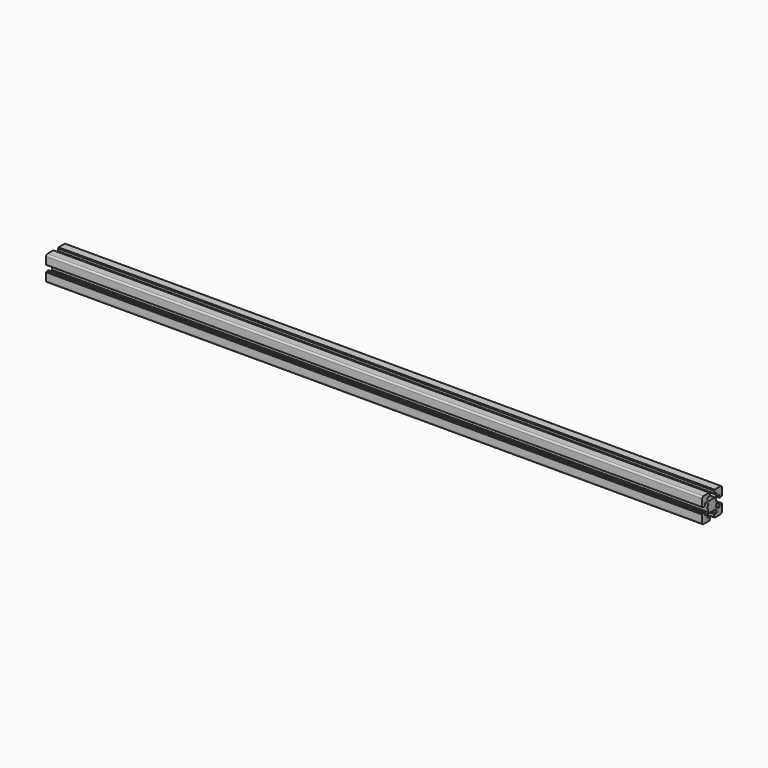
from build123d import *

# Parameters (mm, degrees)
F1_DEPTH = 1193.8


with BuildPart() as f1:
    # F0 (on Right) → F1 (new body)
    with BuildSketch(Plane.YZ):
        with BuildLine():
            Line((-20.088481, -9.788837), (-20.088481, -10.288837))
            Line((-20.088481, -10.288837), (-21.28859, -10.288837))
            ThreePointArc((-21.28859, -10.288837), (-21.500722, -10.376705), (-21.58859, -10.588837))
            Line((-21.58859, -10.588837), (-21.58859, -23.988949))
            ThreePointArc((-21.58859, -23.988949), (-20.70991, -26.11027), (-18.58859, -26.988949))
            Line((-18.58859, -26.988949), (-5.188544, -26.988949))
            ThreePointArc((-5.188544, -26.988949), (-4.976411, -26.901081), (-4.888544, -26.688949))
            Line((-4.888544, -26.688949), (-4.888544, -25.488841))
            Line((-4.888544, -25.488841), (-4.388544, -25.488841))
            ThreePointArc((-4.388544, -25.488841), (-4.176411, -25.400973), (-4.088544, -25.188841))
            Line((-4.088544, -25.188841), (-4.088544, -21.288841))
            ThreePointArc((-4.088544, -21.288841), (-4.176411, -21.076709), (-4.388544, -20.988841))
            Line((-4.388544, -20.988841), (-9.138663, -20.988841))
            Line((-9.138663, -20.988841), (-9.138663, -16.881665))
            Line((-9.138663, -16.881665), (-6.245729, -13.988731))
            Line((-6.245729, -13.988731), (-2.211433, -13.988731))
            ThreePointArc((-2.211433, -13.988731), (-0.669869, -14.363044), (0.91149, -14.48887))
            Line((0.91149, -14.48887), (0.91149, -4.48887))
            Line((0.91149, -4.48887), (-9.08851, -4.48887))
            ThreePointArc((-9.08851, -4.48887), (-8.962684, -6.070229), (-8.588371, -7.611793))
            Line((-8.588371, -7.611793), (-8.588371, -11.646022))
            Line((-8.588371, -11.646022), (-11.481305, -14.538956))
            Line((-11.481305, -14.538956), (-15.588481, -14.538956))
            Line((-15.588481, -14.538956), (-15.588481, -9.788837))
            ThreePointArc((-15.588481, -9.788837), (-15.676349, -9.576705), (-15.888481, -9.488837))
            Line((-15.888481, -9.488837), (-19.788481, -9.488837))
            ThreePointArc((-19.788481, -9.488837), (-20.000613, -9.576705), (-20.088481, -9.788837))
        make_face()
        with BuildLine():
            ThreePointArc((-8.588371, -1.365947), (-8.962684, -2.907511), (-9.08851, -4.48887))
            Line((-9.08851, -4.48887), (0.91149, -4.48887))
            Line((0.91149, -4.48887), (0.91149, 5.51113))
            ThreePointArc((0.91149, 5.51113), (-0.669869, 5.385303), (-2.211433, 5.010991))
            Line((-2.211433, 5.010991), (-6.245729, 5.010991))
            Line((-6.245729, 5.010991), (-9.138663, 7.903925))
            Line((-9.138663, 7.903925), (-9.138663, 12.011101))
            Line((-9.138663, 12.011101), (-4.388544, 12.011101))
            ThreePointArc((-4.388544, 12.011101), (-4.176411, 12.098969), (-4.088544, 12.311101))
            Line((-4.088544, 12.311101), (-4.088544, 16.211101))
            ThreePointArc((-4.088544, 16.211101), (-4.176411, 16.423233), (-4.388544, 16.511101))
            Line((-4.388544, 16.511101), (-4.888544, 16.511101))
            Line((-4.888544, 16.511101), (-4.888544, 17.711209))
            ThreePointArc((-4.888544, 17.711209), (-4.976411, 17.923341), (-5.188544, 18.011209))
            Line((-5.188544, 18.011209), (-18.58859, 18.011209))
            ThreePointArc((-18.58859, 18.011209), (-20.70991, 17.13253), (-21.58859, 15.011209))
            Line((-21.58859, 15.011209), (-21.58859, 1.611097))
            ThreePointArc((-21.58859, 1.611097), (-21.500722, 1.398965), (-21.28859, 1.311097))
            Line((-21.28859, 1.311097), (-20.088481, 1.311097))
            Line((-20.088481, 1.311097), (-20.088481, 0.811097))
            ThreePointArc((-20.088481, 0.811097), (-20.000613, 0.598965), (-19.788481, 0.511097))
            Line((-19.788481, 0.511097), (-15.888481, 0.511097))
            ThreePointArc((-15.888481, 0.511097), (-15.676349, 0.598965), (-15.588481, 0.811097))
            Line((-15.588481, 0.811097), (-15.588481, 5.561216))
            Line((-15.588481, 5.561216), (-11.481305, 5.561216))
            Line((-11.481305, 5.561216), (-8.588371, 2.668282))
            Line((-8.588371, 2.668282), (-8.588371, -1.365947))
        make_face()
        with BuildLine():
            Line((0.91149, 5.51113), (0.91149, -4.48887))
            Line((0.91149, -4.48887), (10.91149, -4.48887))
            ThreePointArc((10.91149, -4.48887), (10.785663, -2.907511), (10.41135, -1.365947))
            Line((10.41135, -1.365947), (10.41135, 2.668282))
            Line((10.41135, 2.668282), (13.304285, 5.561216))
            Line((13.304285, 5.561216), (14.016842, 5.561216))
            Line((14.016842, 5.561216), (17.41146, 5.561216))
            Line((17.41146, 5.561216), (17.41146, 0.811097))
            ThreePointArc((17.41146, 0.811097), (17.499328, 0.598965), (17.71146, 0.511097))
            Line((17.71146, 0.511097), (21.61146, 0.511097))
            ThreePointArc((21.61146, 0.511097), (21.823593, 0.598965), (21.91146, 0.811097))
            Line((21.91146, 0.811097), (21.91146, 1.311097))
            Line((21.91146, 1.311097), (23.111569, 1.311097))
            ThreePointArc((23.111569, 1.311097), (23.323701, 1.398965), (23.411569, 1.611097))
            Line((23.411569, 1.611097), (23.411569, 15.011209))
            ThreePointArc((23.411569, 15.011209), (22.532889, 17.13253), (20.411569, 18.011209))
            Line((20.411569, 18.011209), (7.011523, 18.011209))
            ThreePointArc((7.011523, 18.011209), (6.799391, 17.923341), (6.711523, 17.711209))
            Line((6.711523, 17.711209), (6.711523, 16.511101))
            Line((6.711523, 16.511101), (6.211523, 16.511101))
            ThreePointArc((6.211523, 16.511101), (5.999391, 16.423233), (5.911523, 16.211101))
            Line((5.911523, 16.211101), (5.911523, 12.311101))
            ThreePointArc((5.911523, 12.311101), (5.999391, 12.098969), (6.211523, 12.011101))
            Line((6.211523, 12.011101), (10.961642, 12.011101))
            Line((10.961642, 12.011101), (10.961642, 7.903925))
            Line((10.961642, 7.903925), (8.068708, 5.010991))
            Line((8.068708, 5.010991), (4.034413, 5.010991))
            ThreePointArc((4.034413, 5.010991), (2.492849, 5.385303), (0.91149, 5.51113))
        make_face()
        with BuildLine():
            Line((10.91149, -4.48887), (0.91149, -4.48887))
            Line((0.91149, -4.48887), (0.91149, -14.48887))
            ThreePointArc((0.91149, -14.48887), (2.492849, -14.363044), (4.034413, -13.988731))
            Line((4.034413, -13.988731), (8.068708, -13.988731))
            Line((8.068708, -13.988731), (10.961642, -16.881665))
            Line((10.961642, -16.881665), (10.961642, -20.988841))
            Line((10.961642, -20.988841), (6.211523, -20.988841))
            ThreePointArc((6.211523, -20.988841), (5.999391, -21.076709), (5.911523, -21.288841))
            Line((5.911523, -21.288841), (5.911523, -25.188841))
            ThreePointArc((5.911523, -25.188841), (5.999391, -25.400973), (6.211523, -25.488841))
            Line((6.211523, -25.488841), (6.711523, -25.488841))
            Line((6.711523, -25.488841), (6.711523, -26.688949))
            ThreePointArc((6.711523, -26.688949), (6.799391, -26.901081), (7.011523, -26.988949))
            Line((7.011523, -26.988949), (20.411569, -26.988949))
            ThreePointArc((20.411569, -26.988949), (22.532889, -26.11027), (23.411569, -23.988949))
            Line((23.411569, -23.988949), (23.411569, -10.588837))
            ThreePointArc((23.411569, -10.588837), (23.323701, -10.376705), (23.111569, -10.288837))
            Line((23.111569, -10.288837), (21.91146, -10.288837))
            Line((21.91146, -10.288837), (21.91146, -9.788837))
            ThreePointArc((21.91146, -9.788837), (21.823593, -9.576705), (21.61146, -9.488837))
            Line((21.61146, -9.488837), (17.71146, -9.488837))
            ThreePointArc((17.71146, -9.488837), (17.499328, -9.576705), (17.41146, -9.788837))
            Line((17.41146, -9.788837), (17.41146, -14.538956))
            Line((17.41146, -14.538956), (13.304285, -14.538956))
            Line((13.304285, -14.538956), (10.41135, -11.646022))
            Line((10.41135, -11.646022), (10.41135, -7.611793))
            ThreePointArc((10.41135, -7.611793), (10.785663, -6.070229), (10.91149, -4.48887))
        make_face()
    extrude(amount=F1_DEPTH)


solid = f1.part
